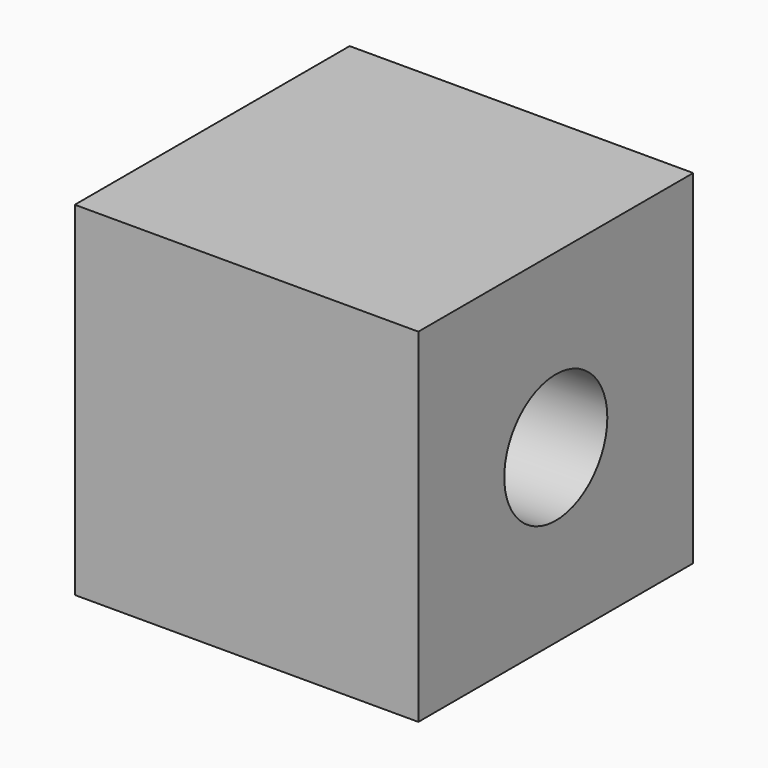
from build123d import *

# Parameters (mm, degrees)
F0_W     = 40
F0_H     = 40
F1_DEPTH = 20
F2_R     = 7.5
F3_DEPTH = 40.001


with BuildPart() as f1:
    # F0 (on Right) → F1 (new body, symmetric)
    with BuildSketch(Plane.YZ):
        Rectangle(F0_W, F0_H)
    extrude(amount=F1_DEPTH, both=True)

    # F2 (on face) → F3 (cut, through all)
    with BuildSketch(Plane.YZ.offset(20)):
        Circle(F2_R)
    extrude(amount=-F3_DEPTH, mode=Mode.SUBTRACT)


solid = f1.part
